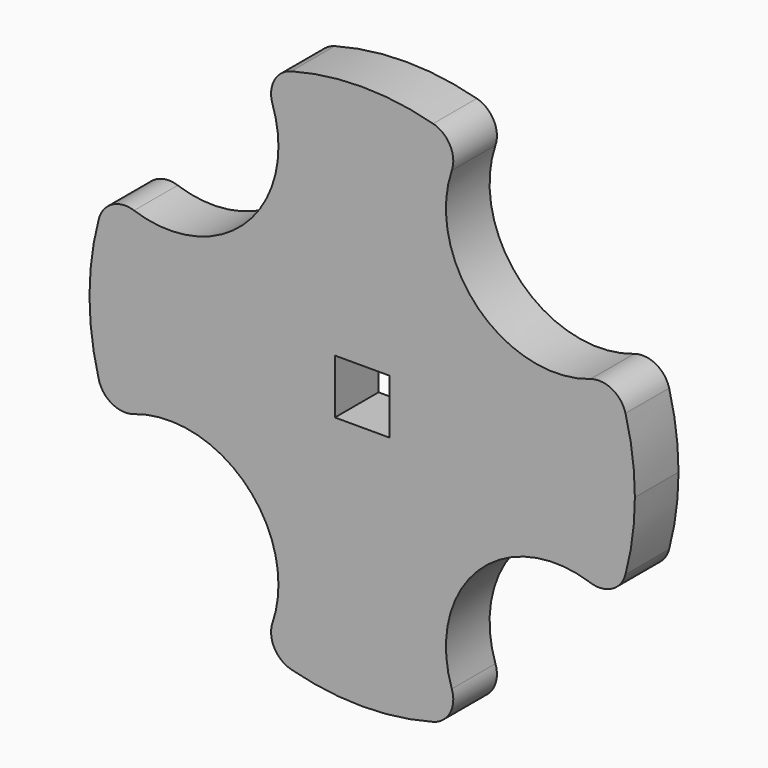
from build123d import *

# Parameters (mm, degrees)
F0_W     = 10
F0_H     = 10
F1_DEPTH = 10
F2_R     = 5
F3_R     = 5


with BuildPart() as f1:
    # F0 (on Front) → F1 (new body)
    with BuildSketch(Plane.XZ):
        with BuildLine():
            ThreePointArc((46.3833183951, -18.670505474), (49.0875030927, -9.5087875211), (50, 0))
            ThreePointArc((50, 0), (49.0875030927, 9.5087875211), (46.3833183951, 18.670505474))
            ThreePointArc((46.3833183951, 18.670505474), (21.2132034356, 21.2132034356), (18.670505474, 46.3833183951))
            ThreePointArc((18.670505474, 46.3833183951), (0, 50), (-18.670505474, 46.3833183951))
            ThreePointArc((-18.670505474, 46.3833183951), (-16.2020538097, 41.113087243), (-15.3553390593, 35.3553390593))
            ThreePointArc((-15.3553390593, 35.3553390593), (-25.8832639624, 17.7405783923), (-46.3833183951, 18.670505474))
            ThreePointArc((-46.3833183951, 18.670505474), (-50, 0), (-46.3833183951, -18.670505474))
            ThreePointArc((-46.3833183951, -18.670505474), (-25.8832639624, -17.7405783923), (-15.3553390593, -35.3553390593))
            ThreePointArc((-15.3553390593, -35.3553390593), (-16.2020538097, -41.113087243), (-18.670505474, -46.3833183951))
            ThreePointArc((-18.670505474, -46.3833183951), (0, -50), (18.670505474, -46.3833183951))
            ThreePointArc((18.670505474, -46.3833183951), (21.2132034356, -21.2132034356), (46.3833183951, -18.670505474))
        make_face()
        Rectangle(F0_W, F0_H, mode=Mode.SUBTRACT)
    extrude(amount=F1_DEPTH)

    # F2
    f2_edges = [f1.edges().sort_by_distance(p)[0] for p in [
        (-46.383318, -5, 18.670505),
        (-18.670505, -5, 46.383318),
        (46.383318, -5, 18.670505),
        (18.670505, -5, 46.383318),
    ]]
    fillet(f2_edges, radius=F2_R)

    # F3
    f3_edges = [f1.edges().sort_by_distance(p)[0] for p in [
        (-18.670505, -5, -46.383318),
        (-46.383318, -5, -18.670505),
        (18.670505, -5, -46.383318),
        (46.383318, -5, -18.670505),
    ]]
    fillet(f3_edges, radius=F3_R)


solid = f1.part
